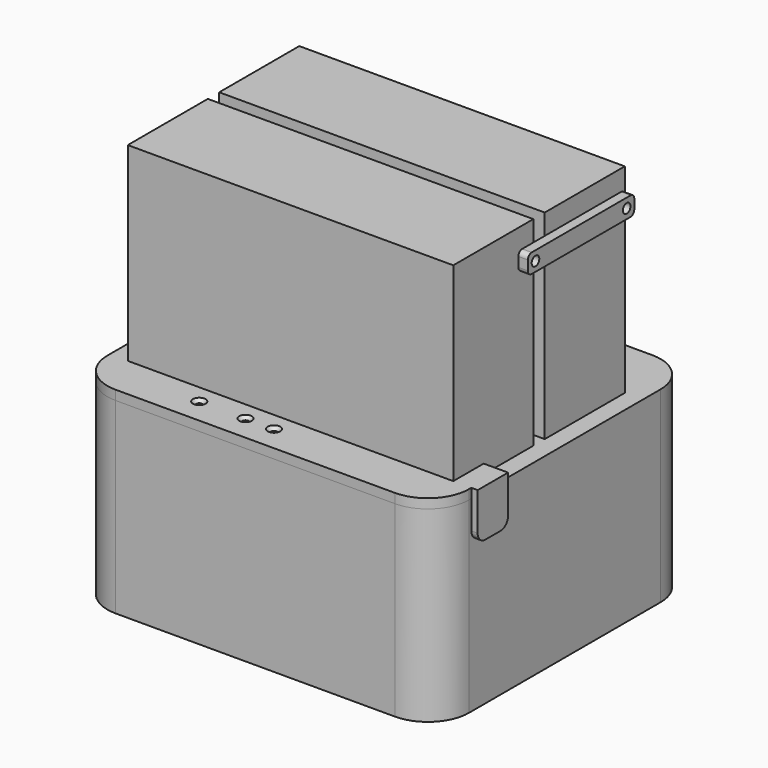
from build123d import *

# Parameters (mm, degrees)
SKETCH_R        = 1.5
PAD_DEPTH       = 3
FILLET_R        = 1.5
SKETCH001_W     = 114.2
SKETCH001_H     = 101.6
PAD001_DEPTH    = 59.2
FILLET001_R     = 13
SKETCH002_W     = 102.8
SKETCH002_H     = 31.6
PAD002_DEPTH    = 63
SKETCH003_W     = 42
SKETCH003_H     = 6
SKETCH003_R     = 1.5
PAD003_DEPTH    = 3
FILLET002_R     = 1.5
PAD004_DEPTH    = 3
SKETCH005_R     = 1
POCKET_DEPTH    = 3
SKETCH006_W     = 12
SKETCH006_H     = 15
PAD005_DEPTH    = 2
SKETCH008_W     = 12
SKETCH008_H     = 15
PAD006_DEPTH    = 2
SKETCH009_W     = 10.3
SKETCH009_H     = 10.3
POCKET001_DEPTH = 1
CHAMFER_SIZE    = 1
FILLET003_R     = 3


with BuildPart() as drive_mount_a:
    # Sketch (on DatumPlane) → Pad (new body)
    with BuildSketch(Plane(origin=(-51.4, 0, 0), x_dir=(0, -1, 0), z_dir=(-1, 0, 0))):
        Polygon((-30.8, 117.2), (-30.8, 59.2), (11.2, 59.2), (11.2, 117.2), (5.2, 117.2), (5.2, 62.2), (-24.8, 62.2), (-24.8, 117.2), align=None)
        with Locations((-27.8, 112.7)):
            Circle(SKETCH_R, mode=Mode.SUBTRACT)
        with Locations((8.2, 112.7)):
            Circle(SKETCH_R, mode=Mode.SUBTRACT)
    extrude(amount=PAD_DEPTH)

    # Fillet
    fillet_edges = [drive_mount_a.edges().sort_by_distance(p)[0] for p in [
        (-52.9, 30.8, 117.2),
        (-52.9, 24.8, 117.2),
        (-52.9, -5.2, 117.2),
        (-52.9, -11.2, 117.2),
    ]]
    fillet(fillet_edges, radius=FILLET_R)


with BuildPart() as obj1:
    # Sketch001 → Pad001 (new body)
    with BuildSketch(Plane.XY):
        Rectangle(SKETCH001_W, SKETCH001_H)
    extrude(amount=PAD001_DEPTH)

    # Fillet001
    fillet001_edges = [obj1.edges().sort_by_distance(p)[0] for p in [
        (57.1, 50.8, 29.6),
        (57.1, -50.8, 29.6),
        (-57.1, -50.8, 29.6),
        (-57.1, 50.8, 29.6),
    ]]
    fillet(fillet001_edges, radius=FILLET001_R)

    # Sketch002 (on Face6 of Pad001) → Pad002 (join)
    with BuildSketch(Plane.XY.offset(59.2)):
        with Locations((0, 15)):
            Rectangle(SKETCH002_W, SKETCH002_H)
        with Locations((0, -21.1)):
            Rectangle(SKETCH002_W, SKETCH002_H)
    extrude(amount=PAD002_DEPTH)


with BuildPart() as drive_mount_b:
    # Sketch003 (on Face16 of ShapeBinder001) → Pad003 (new body)
    with BuildSketch(Plane.YZ.offset(51.4)):
        with Locations((9.8, 112.7)):
            Rectangle(SKETCH003_W, SKETCH003_H)
        with Locations((27.8, 112.7)):
            Circle(SKETCH003_R, mode=Mode.SUBTRACT)
        with Locations((-8.2, 112.7)):
            Circle(SKETCH003_R, mode=Mode.SUBTRACT)
    extrude(amount=PAD003_DEPTH)

    # Fillet002
    fillet002_edges = [drive_mount_b.edges().sort_by_distance(p)[0] for p in [
        (52.9, -11.2, 115.7),
        (52.9, -11.2, 109.7),
        (52.9, 30.8, 109.7),
        (52.9, 30.8, 115.7),
    ]]
    fillet(fillet002_edges, radius=FILLET002_R)


with BuildPart() as body_cover:
    # Sketch004 (on Face5 of ShapeBinder002) → Pad004 (new body)
    with BuildSketch(Plane.XY.offset(59.2)):
        with BuildLine():
            Line((-54.4, -11.2), (-51.4, -11.2))
            Line((-51.4, -11.2), (-51.4, -36.9))
            Line((-51.4, -36.9), (51.4, -36.9))
            Line((51.4, -24.9), (51.4, -36.9))
            Line((57.1, -24.9), (51.4, -24.9))
            Line((57.1, -37.8), (57.1, -24.9))
            ThreePointArc((44.1, -50.8), (53.292388, -46.992388), (57.1, -37.8))
            Line((-44.1, -50.8), (44.1, -50.8))
            ThreePointArc((-57.1, -37.8), (-53.292388, -46.992388), (-44.1, -50.8))
            Line((-57.1, 24.8), (-57.1, -37.8))
            Line((-54.4, 24.8), (-57.1, 24.8))
            Line((-54.4, -11.2), (-54.4, 24.8))
        make_face()
    extrude(amount=PAD004_DEPTH)

    # Sketch005 (on Face14 of Pad004) → Pocket (cut)
    with BuildSketch(Plane.XY.offset(62.2)):
        with Locations((-24.1, -42.8)):
            Circle(SKETCH005_R)
        with Locations((-9.5, -42.8)):
            Circle(SKETCH005_R)
        with Locations((-0.5, -42.8)):
            Circle(SKETCH005_R)
    extrude(amount=-POCKET_DEPTH, mode=Mode.SUBTRACT)

    # Sketch006 (on Face8 of Pocket) → Pad005 (join)
    with BuildSketch(Plane(origin=(-57.1, 0, 0), x_dir=(0, -1, 0), z_dir=(-1, 0, 0))):
        with Locations((-9.8, 54.7)):
            Rectangle(SKETCH006_W, SKETCH006_H)
    extrude(amount=PAD005_DEPTH)

    # Sketch008 (on Face15 of Pad005) → Pad006 (join)
    with BuildSketch(Plane.YZ.offset(57.1)):
        with Locations((-30.9, 54.7)):
            Rectangle(SKETCH008_W, SKETCH008_H)
    extrude(amount=PAD006_DEPTH)

    # Sketch009 (on Face4 of Pad006) → Pocket001 (cut)
    with BuildSketch(Plane(origin=(0, 0, 59.2), x_dir=(1, 0, 0), z_dir=(0, 0, -1))):
        with Locations((23.95, 42.95)):
            Rectangle(SKETCH009_W, SKETCH009_H)
    extrude(amount=-POCKET001_DEPTH, mode=Mode.SUBTRACT)

    # Chamfer
    chamfer_edges = [body_cover.edges().sort_by_distance(p)[0] for p in [
        (-10.5, -42.8, 62.2),
        (-25.1, -42.8, 62.2),
        (-1.5, -42.8, 62.2),
    ]]
    chamfer(chamfer_edges, length=CHAMFER_SIZE)

    # Fillet003
    fillet003_edges = [body_cover.edges().sort_by_distance(p)[0] for p in [
        (58.1, -24.9, 47.2),
        (58.1, -36.9, 47.2),
        (-58.1, 15.8, 47.2),
        (-58.1, 3.8, 47.2),
    ]]
    fillet(fillet003_edges, radius=FILLET003_R)


solid = Compound([drive_mount_a.part, obj1.part, drive_mount_b.part, body_cover.part])
